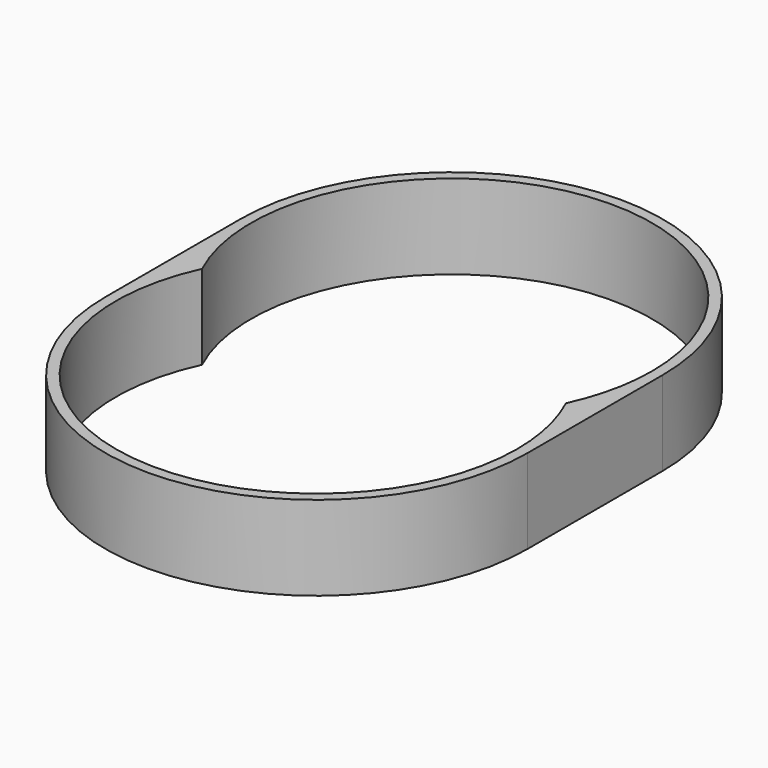
from build123d import *

# Parameters (mm, degrees)
F2_DEPTH = 20
F3_DEPTH = 20
F4_DEPTH = 20


with BuildPart() as f2:
    # F1 (on Top) → F2 (new body)
    with BuildSketch(Plane.XY):
        with BuildLine():
            ThreePointArc((-45.8257569496, -20), (0, -50), (45.8257569496, -20))
            ThreePointArc((45.8257569496, -20), (0, 10), (-45.8257569496, -20))
        make_face()
    extrude(amount=F2_DEPTH)

    # F1 (on Top) → F3 (join)
    with BuildSketch(Plane.XY):
        with BuildLine():
            ThreePointArc((45.8257569496, -20), (48.9453156465, -10.2154821845), (50, 0))
            ThreePointArc((50, 0), (0, 50), (-50, 0))
            ThreePointArc((-50, 0), (-48.9453156465, -10.2154821845), (-45.8257569496, -20))
            ThreePointArc((-45.8257569496, -20), (0, 10), (45.8257569496, -20))
        make_face()
        with BuildLine():
            Line((50, -40), (50, 0))
            ThreePointArc((50, 0), (48.9453156465, -10.2154821845), (45.8257569496, -20))
            ThreePointArc((45.8257569496, -20), (48.9453156465, -29.7845178155), (50, -40))
        make_face()
        with BuildLine():
            ThreePointArc((-45.8257569496, -20), (-48.9453156465, -10.2154821845), (-50, 0))
            Line((-50, 0), (-50, -40))
            ThreePointArc((-50, -40), (-48.9453156465, -29.7845178155), (-45.8257569496, -20))
        make_face()
        with BuildLine():
            ThreePointArc((50, -40), (48.9453156465, -29.7845178155), (45.8257569496, -20))
            ThreePointArc((45.8257569496, -20), (0, -50), (-45.8257569496, -20))
            ThreePointArc((-45.8257569496, -20), (-48.9453156465, -29.7845178155), (-50, -40))
            ThreePointArc((-50, -40), (0, -90), (50, -40))
        make_face()
    extrude(amount=F3_DEPTH)

    # F0 (on Top) → F4 (cut)
    with BuildSketch(Plane.XY):
        with BuildLine():
            ThreePointArc((43.084219849, -20), (46.3829195008, -10.2408387638), (47.5, 0))
            ThreePointArc((47.5, 0), (-10.2408387638, 46.3829195008), (-43.084219849, -20))
            ThreePointArc((-43.084219849, -20), (0, 7.5), (43.084219849, -20))
        make_face()
        with BuildLine():
            ThreePointArc((43.084219849, -20), (0, 7.5), (-43.084219849, -20))
            ThreePointArc((-43.084219849, -20), (0, -47.5), (43.084219849, -20))
        make_face()
        with BuildLine():
            ThreePointArc((43.084219849, -20), (0, -47.5), (-43.084219849, -20))
            ThreePointArc((-43.084219849, -20), (-10.2408387638, -86.3829195008), (47.5, -40))
            ThreePointArc((47.5, -40), (46.3829195008, -29.7591612362), (43.084219849, -20))
        make_face()
    extrude(amount=F4_DEPTH, mode=Mode.SUBTRACT)


solid = f2.part
